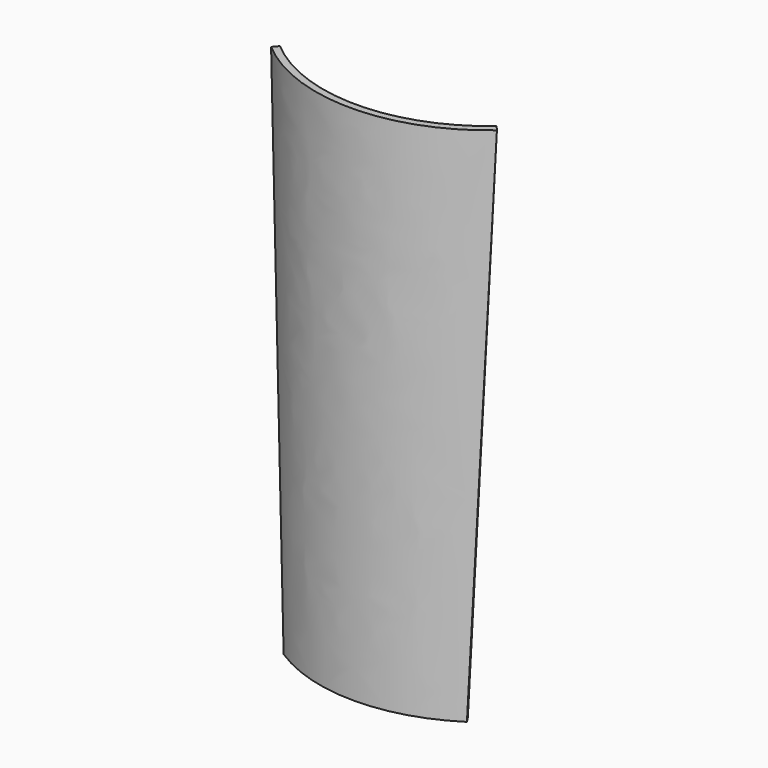
from build123d import *


with BuildPart() as f3:
    # F2 (on offset) → F3 section 0
    with BuildSketch(Plane.XY.offset(-368.3)):
        with BuildLine():
            ThreePointArc((61.78033, -67.934059), (0, -86.21022), (-61.78033, -67.934059))
            Line((-61.78033, -67.934059), (-64.500528, -72.129356))
            ThreePointArc((-64.500528, -72.129356), (0, -91.21022), (64.500528, -72.129356))
            Line((64.500528, -72.129356), (61.78033, -67.934059))
        make_face()
    # F1 (on Top) → F3 section 1
    with BuildSketch(Plane.XY):
        with BuildLine():
            ThreePointArc((76.2, -60.65196), (0, -88.9), (-76.2, -60.65196))
            Line((-76.2, -60.65196), (-79.459196, -64.443746))
            ThreePointArc((-79.459196, -64.443746), (0, -93.9), (79.459196, -64.443746))
            Line((79.459196, -64.443746), (76.2, -60.65196))
        make_face()
    loft()


solid = f3.part
